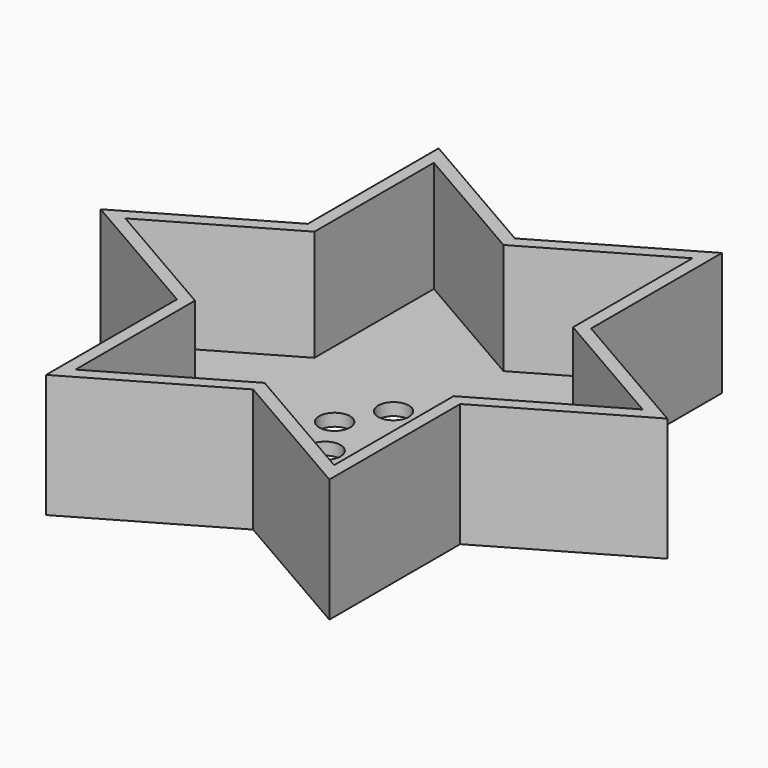
from build123d import *

# Parameters (mm, degrees)
F1_DEPTH = 25.4
F2_T     = -2.54
F3_R     = 3.175
F4_DEPTH = 25.4


with BuildPart() as f1:
    # F0 (on Top) → F1 (new body)
    with BuildSketch(Plane.XY):
        Polygon((-58.3186791779, 0), (-29.159339589, -16.8351525611), (-29.159339589, -50.5054576833), (0, -33.6703051222), (29.159339589, -50.5054576833), (29.159339589, -16.8351525611), (58.3186791779, 0), (29.159339589, 16.8351525611), (29.159339589, 50.5054576833), (0, 33.6703051222), (-29.159339589, 50.5054576833), (-29.159339589, 16.8351525611), align=None)
    extrude(amount=F1_DEPTH)

    # F2
    f2_openings = [f1.faces().sort_by_distance(p)[0] for p in [
        (0, 0, 25.4),
    ]]
    offset(amount=F2_T, openings=f2_openings, kind=Kind.INTERSECTION)

    # F3 (on face) → F4 (cut)
    with BuildSketch(Plane.XY.offset(2.54)):
        with Locations((5.08, 8.7988181024)):
            Circle(F3_R)
        with Locations((10.16, 0)):
            Circle(F3_R)
        with Locations((5.08, -8.7988181024)):
            Circle(F3_R)
        with Locations((-5.08, -8.7988181024)):
            Circle(F3_R)
        with Locations((-10.16, 0)):
            Circle(F3_R)
        with Locations((-5.08, 8.7988181024)):
            Circle(F3_R)
    extrude(amount=-F4_DEPTH, mode=Mode.SUBTRACT)


solid = f1.part
